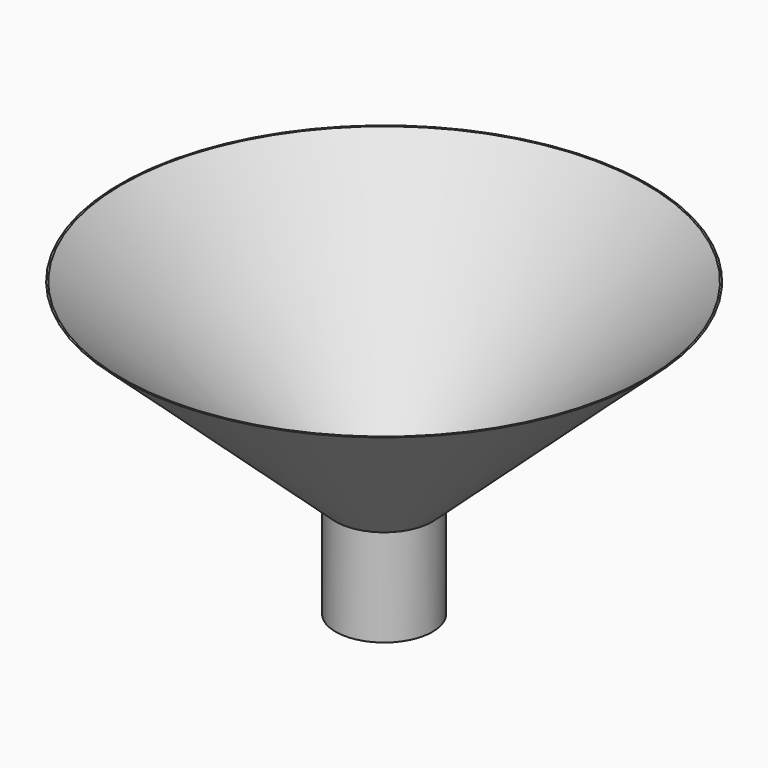
from build123d import *

# Parameters (mm, degrees)
F3_R     = 10.761748
F4_DEPTH = 25.4


with BuildPart() as f1:
    # F0 (on Front) → F1 (revolve)
    with BuildSketch(Plane.XZ):
        Polygon((7.735179, -12.633663), (64.147941, 38.591725), (63.709629, 38.591725), (7.296868, -12.633663), (-4.964821, -12.633663), (-4.964821, -38.033663), (7.735179, -38.033663), align=None)
    revolve(axis=Axis((-4.964821, 0, -25.333663), (0, 0, 1)))

    # F3 (on face) → F4 (cut)
    with BuildSketch(Plane(origin=(0, 0, -38.033663), x_dir=(1, 0, 0), z_dir=(0, 0, -1))):
        with Locations((-5.098195, 0)):
            Circle(F3_R)
    extrude(amount=-F4_DEPTH, mode=Mode.SUBTRACT)


solid = f1.part
